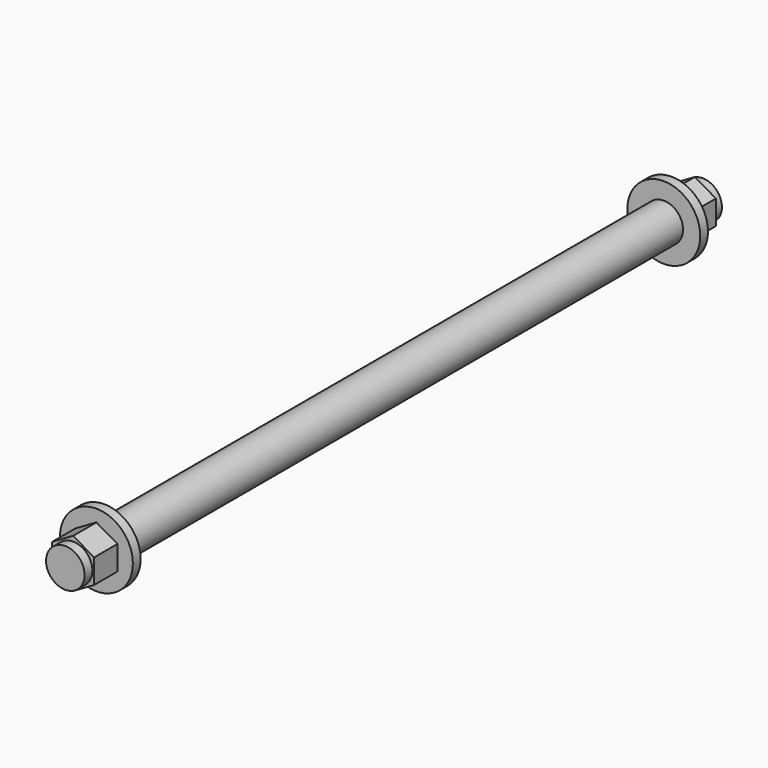
from build123d import *

# Parameters (mm, degrees)
SKETCH013_R     = 3.96875
PAD009_DEPTH    = 164
SKETCH014_R     = 7.5
PAD010_DEPTH    = 10
SKETCH015_R     = 7.5
POCKET003_DEPTH = 8
SKETCH016_R     = 7.5
SKETCH016_R_2   = 3.96875
POCKET004_DEPTH = 2
SKETCH017_R     = 7.5
PAD011_DEPTH    = 10
SKETCH018_R     = 7.5
POCKET005_DEPTH = 8
SKETCH019_R     = 7.5
SKETCH019_R_2   = 3.96875
POCKET006_DEPTH = 2


with BuildPart() as part:
    # Sketch013 → Pad009 (new body)
    with BuildSketch(Plane(origin=(500, 82, 56), x_dir=(1, 0, 0), z_dir=(0, -1, 0))):
        Circle(SKETCH013_R)
    extrude(amount=PAD009_DEPTH)

    # Sketch014 → Pad010 (new body)
    with BuildSketch(Plane(origin=(500, 82, 56), x_dir=(1, 0, 0), z_dir=(0, 1, 0))):
        Circle(SKETCH014_R)
    extrude(amount=-PAD010_DEPTH)

    # Sketch015 → Pocket003 (cut)
    with BuildSketch(Plane(origin=(500, 82, 56), x_dir=(1, 0, 0), z_dir=(0, 1, 0))):
        Circle(SKETCH015_R)
        Polygon((0, 5), (-4.330127, 2.5), (-4.330127, -2.5), (0, -5), (4.330127, -2.5), (4.330127, 2.5), align=None, mode=Mode.SUBTRACT)
    extrude(amount=-POCKET003_DEPTH, mode=Mode.SUBTRACT)

    # Sketch016 → Pocket004 (cut)
    with BuildSketch(Plane(origin=(500, 82, 56), x_dir=(1, 0, 0), z_dir=(0, 1, 0))):
        Circle(SKETCH016_R)
        Circle(SKETCH016_R_2, mode=Mode.SUBTRACT)
    extrude(amount=-POCKET004_DEPTH, mode=Mode.SUBTRACT)

    # Sketch017 → Pad011 (new body)
    with BuildSketch(Plane(origin=(500, -82, 56), x_dir=(1, 0, 0), z_dir=(0, -1, 0))):
        Circle(SKETCH017_R)
    extrude(amount=-PAD011_DEPTH)

    # Sketch018 → Pocket005 (cut)
    with BuildSketch(Plane(origin=(500, -82, 56), x_dir=(1, 0, 0), z_dir=(0, -1, 0))):
        Circle(SKETCH018_R)
        Polygon((0, 5), (-4.330127, 2.5), (-4.330127, -2.5), (0, -5), (4.330127, -2.5), (4.330127, 2.5), align=None, mode=Mode.SUBTRACT)
    extrude(amount=-POCKET005_DEPTH, mode=Mode.SUBTRACT)

    # Sketch019 → Pocket006 (cut)
    with BuildSketch(Plane(origin=(500, -82, 56), x_dir=(1, 0, 0), z_dir=(0, -1, 0))):
        Circle(SKETCH019_R)
        Circle(SKETCH019_R_2, mode=Mode.SUBTRACT)
    extrude(amount=-POCKET006_DEPTH, mode=Mode.SUBTRACT)


with BuildPart() as part_1:
    # Clone019 placement: moved
    add(part.part.moved(Location((-1048.5, 0, -84))))


solid = part_1.part
